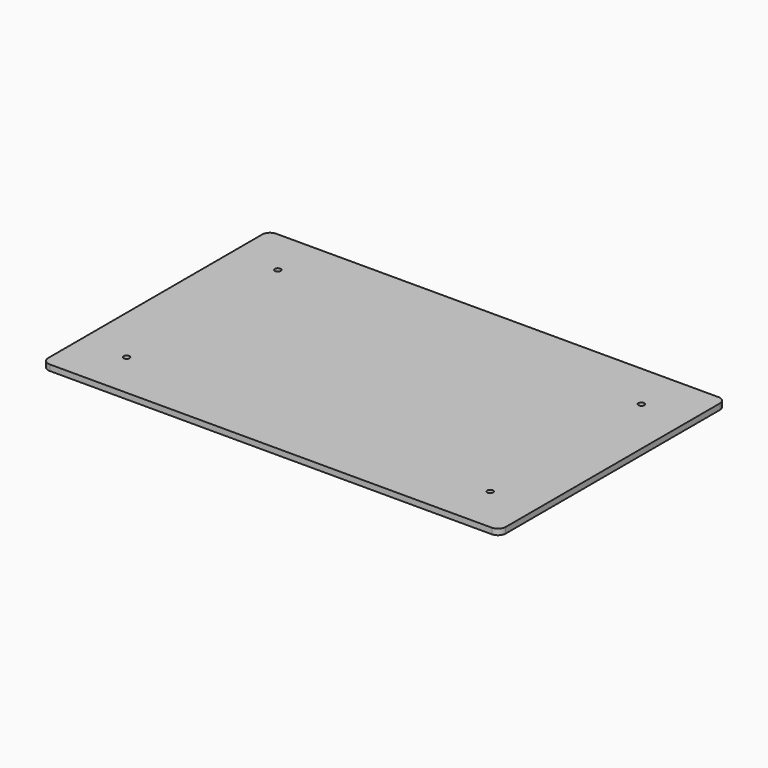
from build123d import *

# Parameters (mm, degrees)
F1_W     = 236
F1_H     = 146
F1_R     = 1.5
F2_DEPTH = 3
F3_R     = 4


with BuildPart() as f2:
    # F1 (on Top) → F2 (new body)
    with BuildSketch(Plane.XY):
        with Locations((118, 73)):
            Rectangle(F1_W, F1_H)
        with Locations((24.25, 24.25)):
            Circle(F1_R, mode=Mode.SUBTRACT)
        with Locations((211.75, 24.25)):
            Circle(F1_R, mode=Mode.SUBTRACT)
        with Locations((24.25, 121.75)):
            Circle(F1_R, mode=Mode.SUBTRACT)
        with Locations((211.75, 121.75)):
            Circle(F1_R, mode=Mode.SUBTRACT)
    extrude(amount=F2_DEPTH)

    # F3
    f3_edges = [f2.edges().sort_by_distance(p)[0] for p in [
        (0, 0, 1.5),
        (0, 146, 1.5),
        (236, 146, 1.5),
        (236, 0, 1.5),
    ]]
    fillet(f3_edges, radius=F3_R)


solid = f2.part
